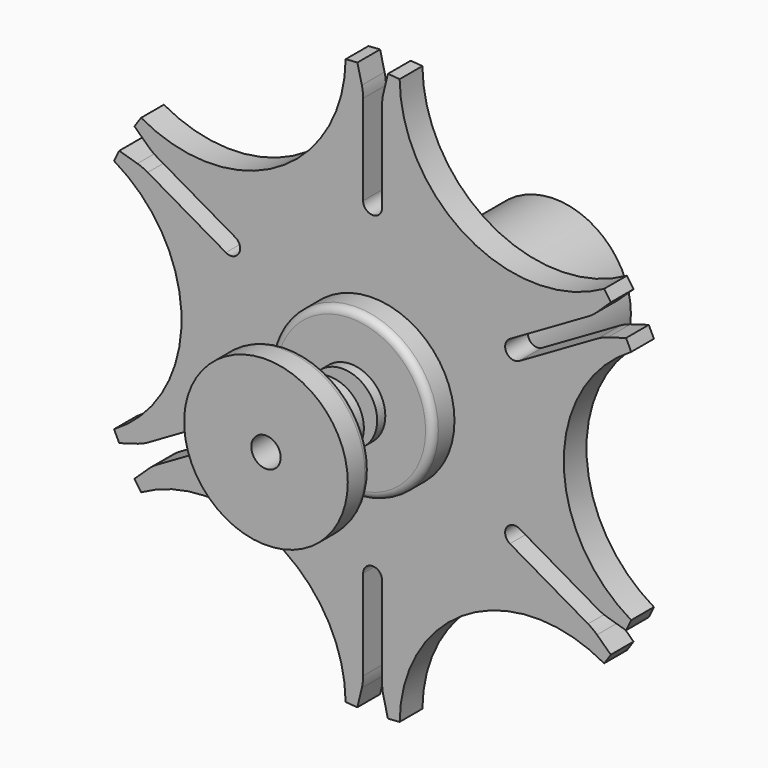
from build123d import *

# Parameters (mm, degrees)
F4_DEPTH = 3
F7_D     = 3.1
F7_2_D   = 3.1
F8_START = -3
F0_R     = 8.0625115623
F8_DEPTH = 21
F9_D     = 3


with BuildPart() as f3:
    # F2 (on Top) → F3 (revolve)
    with BuildSketch(Plane.XY):
        with BuildLine():
            Line((3.63828, -3.95), (3.63828, -2.875))
            Line((3.63828, -2.875), (7.88828, -2.875))
            ThreePointArc((7.88828, -2.875), (8.4186100859, -2.6553300859), (8.63828, -2.125))
            Line((8.63828, -2.125), (8.63828, 0.125))
            Line((8.63828, 0.125), (0, 0.125))
            Line((0, 0.125), (0, -3.95))
            Line((0, -3.95), (3.63828, -3.95))
        make_face()
    revolve(axis=Axis((0, -9.8875, 0), (0, 1, 0)))

    # F1 (on Front) → F4 (join)
    with BuildSketch(Plane.XZ):
        with BuildLine():
            ThreePointArc((27.2891470518, -12.4620404904), (20.1715, 0), (27.2891470518, 12.4620404904))
            ThreePointArc((27.2891470518, 12.4620404904), (27.0246253415, 13.025729352), (26.7484615166, 13.5838067747))
            Line((26.7484615166, 13.5838067747), (24.8260405421, 13.0172374421))
            ThreePointArc((24.8260405421, 13.0172374421), (24.268959251, 12.8165018518), (23.7395157511, 12.551315271))
            Line((23.7395157511, 12.551315271), (15.4864212633, 7.7863889468))
            ThreePointArc((15.4864212633, 7.7863889468), (14.1203958595, 8.1524143506), (14.4864212633, 9.5184397543))
            Line((14.4864212633, 9.5184397543), (22.7395157511, 14.2833660785))
            ThreePointArc((22.7395157511, 14.2833660785), (23.2338958168, 14.6092843089), (23.686278583, 14.9913630638))
            Line((23.686278583, 14.9913630638), (25.1381525053, 16.3729437982))
            ThreePointArc((25.1381525053, 16.3729437982), (24.7929251924, 16.8911473975), (24.4370171736, 17.4020743493))
            ThreePointArc((24.4370171736, 17.4020743493), (10.08575, 17.4690314324), (2.8521298782, 29.8641148397))
            ThreePointArc((2.8521298782, 29.8641148397), (2.2317001491, 29.9168767495), (1.6103090113, 29.9567505729))
            Line((1.6103090113, 29.9567505729), (1.1397619591, 28.0086005059))
            ThreePointArc((1.1397619591, 28.0086005059), (1.0350634342, 27.4257861606), (1, 26.8346813495))
            Line((1, 26.8346813495), (1, 17.3048287011))
            ThreePointArc((1, 17.3048287011), (0, 16.3048287011), (-1, 17.3048287011))
            Line((-1, 17.3048287011), (-1, 26.8346813495))
            ThreePointArc((-1, 26.8346813495), (-1.0350634342, 27.4257861606), (-1.1397619591, 28.0086005059))
            Line((-1.1397619591, 28.0086005059), (-1.6103090113, 29.9567505729))
            ThreePointArc((-1.6103090113, 29.9567505729), (-2.2317001491, 29.9168767495), (-2.8521298782, 29.8641148397))
            ThreePointArc((-2.8521298782, 29.8641148397), (-10.08575, 17.4690314324), (-24.4370171736, 17.4020743493))
            ThreePointArc((-24.4370171736, 17.4020743493), (-24.7929251924, 16.8911473975), (-25.1381525053, 16.3729437982))
            Line((-25.1381525053, 16.3729437982), (-23.686278583, 14.9913630638))
            ThreePointArc((-23.686278583, 14.9913630638), (-23.2338958168, 14.6092843089), (-22.7395157511, 14.2833660785))
            Line((-22.7395157511, 14.2833660785), (-14.4864212633, 9.5184397543))
            ThreePointArc((-14.4864212633, 9.5184397543), (-14.1203958595, 8.1524143506), (-15.4864212633, 7.7863889468))
            Line((-15.4864212633, 7.7863889468), (-23.7395157511, 12.551315271))
            ThreePointArc((-23.7395157511, 12.551315271), (-24.268959251, 12.8165018518), (-24.8260405421, 13.0172374421))
            Line((-24.8260405421, 13.0172374421), (-26.7484615166, 13.5838067747))
            ThreePointArc((-26.7484615166, 13.5838067747), (-27.0246253415, 13.025729352), (-27.2891470518, 12.4620404904))
            ThreePointArc((-27.2891470518, 12.4620404904), (-20.1715, 0), (-27.2891470518, -12.4620404904))
            ThreePointArc((-27.2891470518, -12.4620404904), (-27.0246253415, -13.025729352), (-26.7484615166, -13.5838067747))
            Line((-26.7484615166, -13.5838067747), (-24.8260405421, -13.0172374421))
            ThreePointArc((-24.8260405421, -13.0172374421), (-24.268959251, -12.8165018518), (-23.7395157511, -12.551315271))
            Line((-23.7395157511, -12.551315271), (-15.4864212633, -7.7863889468))
            ThreePointArc((-15.4864212633, -7.7863889468), (-14.1203958595, -8.1524143506), (-14.4864212633, -9.5184397543))
            Line((-14.4864212633, -9.5184397543), (-22.7395157511, -14.2833660785))
            ThreePointArc((-22.7395157511, -14.2833660785), (-23.2338958168, -14.6092843089), (-23.686278583, -14.9913630638))
            Line((-23.686278583, -14.9913630638), (-25.1381525053, -16.3729437982))
            ThreePointArc((-25.1381525053, -16.3729437982), (-24.7929251924, -16.8911473975), (-24.4370171736, -17.4020743493))
            ThreePointArc((-24.4370171736, -17.4020743493), (-10.08575, -17.4690314324), (-2.8521298782, -29.8641148397))
            ThreePointArc((-2.8521298782, -29.8641148397), (-2.2317001491, -29.9168767495), (-1.6103090113, -29.9567505729))
            Line((-1.6103090113, -29.9567505729), (-1.1397619591, -28.0086005059))
            ThreePointArc((-1.1397619591, -28.0086005059), (-1.0350634342, -27.4257861606), (-1, -26.8346813495))
            Line((-1, -26.8346813495), (-1, -17.3048287011))
            ThreePointArc((-1, -17.3048287011), (0, -16.3048287011), (1, -17.3048287011))
            Line((1, -17.3048287011), (1, -26.8346813495))
            ThreePointArc((1, -26.8346813495), (1.0350634342, -27.4257861606), (1.1397619591, -28.0086005059))
            Line((1.1397619591, -28.0086005059), (1.6103090113, -29.9567505729))
            ThreePointArc((1.6103090113, -29.9567505729), (2.2317001491, -29.9168767495), (2.8521298782, -29.8641148397))
            ThreePointArc((2.8521298782, -29.8641148397), (10.08575, -17.4690314324), (24.4370171736, -17.4020743493))
            ThreePointArc((24.4370171736, -17.4020743493), (24.7929251924, -16.8911473975), (25.1381525053, -16.3729437982))
            Line((25.1381525053, -16.3729437982), (23.686278583, -14.9913630638))
            ThreePointArc((23.686278583, -14.9913630638), (23.2338958168, -14.6092843089), (22.7395157511, -14.2833660785))
            Line((22.7395157511, -14.2833660785), (14.4864212633, -9.5184397543))
            ThreePointArc((14.4864212633, -9.5184397543), (14.1203958595, -8.1524143506), (15.4864212633, -7.7863889468))
            Line((15.4864212633, -7.7863889468), (23.7395157511, -12.551315271))
            ThreePointArc((23.7395157511, -12.551315271), (24.268959251, -12.8165018518), (24.8260405421, -13.0172374421))
            Line((24.8260405421, -13.0172374421), (26.7484615166, -13.5838067747))
            ThreePointArc((26.7484615166, -13.5838067747), (27.0246253415, -13.025729352), (27.2891470518, -12.4620404904))
        make_face()
    extrude(amount=-F4_DEPTH)

    # F7 (through all)
    with Locations(Plane.XZ.offset(14.075)):
        with Locations((0, 0)):
            Hole(F7_D / 2)


with BuildPart() as f3b:
    # F2 (on Top) → F3, piece 2 (revolve)
    with BuildSketch(Plane.XY):
        with BuildLine():
            Line((7.88828, -11.075), (3.63828, -11.075))
            Line((3.63828, -11.075), (3.63828, -5.7))
            Line((3.63828, -5.7), (0, -5.7))
            Line((0, -5.7), (0, -14.075))
            Line((0, -14.075), (8.63828, -14.075))
            Line((8.63828, -14.075), (8.63828, -11.825))
            ThreePointArc((8.63828, -11.825), (8.4186100859, -11.2946699141), (7.88828, -11.075))
        make_face()
    revolve(axis=Axis((0, -9.8875, 0), (0, 1, 0)))

    # F7#2 (through all)
    with Locations(Plane.XZ.offset(14.075)):
        with Locations((0, 0)):
            Hole(F7_2_D / 2)


with BuildPart() as f8:
    # F0 (on Front) → F8 (new body)
    with BuildSketch(Plane.XZ.offset(F8_START)):
        Circle(F0_R)
        with BuildLine():
            ThreePointArc((3.3987444888, 1.2983132359), (3.5778950136, 0.6601125888), (3.63828, 0))
            ThreePointArc((3.63828, 0), (3.5778950136, -0.6601125888), (3.3987444888, -1.2983132359))
            Line((3.3987444888, -1.2983132359), (3.8317571906, -1.5483132359))
            Line((3.8317571906, -1.5483132359), (4.1377083002, -2.388907001))
            Line((4.1377083002, -2.388907001), (3.2567571906, -2.5442424503))
            Line((3.2567571906, -2.5442424503), (2.8237444888, -2.2942424503))
            ThreePointArc((2.8237444888, -2.2942424503), (1.81914, -3.1508429061), (0.575, -3.5925556862))
            Line((0.575, -3.5925556862), (0.575, -4.0925556862))
            Line((0.575, -4.0925556862), (0, -4.7778140019))
            Line((0, -4.7778140019), (-0.575, -4.0925556862))
            Line((-0.575, -4.0925556862), (-0.575, -3.5925556862))
            ThreePointArc((-0.575, -3.5925556862), (-1.81914, -3.1508429061), (-2.8237444888, -2.2942424503))
            Line((-2.8237444888, -2.2942424503), (-3.2567571906, -2.5442424503))
            Line((-3.2567571906, -2.5442424503), (-4.1377083002, -2.388907001))
            Line((-4.1377083002, -2.388907001), (-3.8317571906, -1.5483132359))
            Line((-3.8317571906, -1.5483132359), (-3.3987444888, -1.2983132359))
            ThreePointArc((-3.3987444888, -1.2983132359), (-3.63828, 0), (-3.3987444888, 1.2983132359))
            Line((-3.3987444888, 1.2983132359), (-3.8317571906, 1.5483132359))
            Line((-3.8317571906, 1.5483132359), (-4.1377083002, 2.388907001))
            Line((-4.1377083002, 2.388907001), (-3.2567571906, 2.5442424503))
            Line((-3.2567571906, 2.5442424503), (-2.8237444888, 2.2942424503))
            ThreePointArc((-2.8237444888, 2.2942424503), (-1.81914, 3.1508429061), (-0.575, 3.5925556862))
            Line((-0.575, 3.5925556862), (-0.575, 4.0925556862))
            Line((-0.575, 4.0925556862), (0, 4.7778140019))
            Line((0, 4.7778140019), (0.575, 4.0925556862))
            Line((0.575, 4.0925556862), (0.575, 3.5925556862))
            ThreePointArc((0.575, 3.5925556862), (1.81914, 3.1508429061), (2.8237444888, 2.2942424503))
            Line((2.8237444888, 2.2942424503), (3.2567571906, 2.5442424503))
            Line((3.2567571906, 2.5442424503), (4.1377083002, 2.388907001))
            Line((4.1377083002, 2.388907001), (3.8317571906, 1.5483132359))
            Line((3.8317571906, 1.5483132359), (3.3987444888, 1.2983132359))
        make_face(mode=Mode.SUBTRACT)
        with BuildLine():
            Line((-3.2567571906, -2.5442424503), (-2.8237444888, -2.2942424503))
            ThreePointArc((-2.8237444888, -2.2942424503), (-3.1508429061, -1.81914), (-3.3987444888, -1.2983132359))
            Line((-3.3987444888, -1.2983132359), (-3.8317571906, -1.5483132359))
            Line((-3.8317571906, -1.5483132359), (-3.2567571906, -2.5442424503))
        make_face()
        Polygon((-4.1377083002, -2.388907001), (-3.2567571906, -2.5442424503), (-3.8317571906, -1.5483132359), align=None)
        with BuildLine():
            ThreePointArc((3.3987444888, -1.2983132359), (3.5778950136, -0.6601125888), (3.63828, 0))
            ThreePointArc((3.63828, 0), (3.5778950136, 0.6601125888), (3.3987444888, 1.2983132359))
            ThreePointArc((3.3987444888, 1.2983132359), (3.1508429061, 1.81914), (2.8237444888, 2.2942424503))
            ThreePointArc((2.8237444888, 2.2942424503), (1.81914, 3.1508429061), (0.575, 3.5925556862))
            ThreePointArc((0.575, 3.5925556862), (0, 3.63828), (-0.575, 3.5925556862))
            ThreePointArc((-0.575, 3.5925556862), (-1.81914, 3.1508429061), (-2.8237444888, 2.2942424503))
            ThreePointArc((-2.8237444888, 2.2942424503), (-3.1508429061, 1.81914), (-3.3987444888, 1.2983132359))
            ThreePointArc((-3.3987444888, 1.2983132359), (-3.63828, 0), (-3.3987444888, -1.2983132359))
            ThreePointArc((-3.3987444888, -1.2983132359), (-3.1508429061, -1.81914), (-2.8237444888, -2.2942424503))
            ThreePointArc((-2.8237444888, -2.2942424503), (-1.81914, -3.1508429061), (-0.575, -3.5925556862))
            ThreePointArc((-0.575, -3.5925556862), (0, -3.63828), (0.575, -3.5925556862))
            ThreePointArc((0.575, -3.5925556862), (1.81914, -3.1508429061), (2.8237444888, -2.2942424503))
            ThreePointArc((2.8237444888, -2.2942424503), (3.1508429061, -1.81914), (3.3987444888, -1.2983132359))
        make_face()
        with BuildLine():
            Line((0.575, -4.0925556862), (0.575, -3.5925556862))
            ThreePointArc((0.575, -3.5925556862), (0, -3.63828), (-0.575, -3.5925556862))
            Line((-0.575, -3.5925556862), (-0.575, -4.0925556862))
            Line((-0.575, -4.0925556862), (0.575, -4.0925556862))
        make_face()
        with BuildLine():
            ThreePointArc((-3.3987444888, 1.2983132359), (-3.1508429061, 1.81914), (-2.8237444888, 2.2942424503))
            Line((-2.8237444888, 2.2942424503), (-3.2567571906, 2.5442424503))
            Line((-3.2567571906, 2.5442424503), (-3.8317571906, 1.5483132359))
            Line((-3.8317571906, 1.5483132359), (-3.3987444888, 1.2983132359))
        make_face()
        with BuildLine():
            ThreePointArc((-0.575, 3.5925556862), (0, 3.63828), (0.575, 3.5925556862))
            Line((0.575, 3.5925556862), (0.575, 4.0925556862))
            Line((0.575, 4.0925556862), (-0.575, 4.0925556862))
            Line((-0.575, 4.0925556862), (-0.575, 3.5925556862))
        make_face()
        with BuildLine():
            ThreePointArc((2.8237444888, 2.2942424503), (3.1508429061, 1.81914), (3.3987444888, 1.2983132359))
            Line((3.3987444888, 1.2983132359), (3.8317571906, 1.5483132359))
            Line((3.8317571906, 1.5483132359), (3.2567571906, 2.5442424503))
            Line((3.2567571906, 2.5442424503), (2.8237444888, 2.2942424503))
        make_face()
        Polygon((4.1377083002, -2.388907001), (3.8317571906, -1.5483132359), (3.2567571906, -2.5442424503), align=None)
        Polygon((0, -4.7778140019), (0.575, -4.0925556862), (-0.575, -4.0925556862), align=None)
        Polygon((-3.8317571906, 1.5483132359), (-3.2567571906, 2.5442424503), (-4.1377083002, 2.388907001), align=None)
        Polygon((-0.575, 4.0925556862), (0.575, 4.0925556862), (0, 4.7778140019), align=None)
        with BuildLine():
            Line((3.8317571906, -1.5483132359), (3.3987444888, -1.2983132359))
            ThreePointArc((3.3987444888, -1.2983132359), (3.1508429061, -1.81914), (2.8237444888, -2.2942424503))
            Line((2.8237444888, -2.2942424503), (3.2567571906, -2.5442424503))
            Line((3.2567571906, -2.5442424503), (3.8317571906, -1.5483132359))
        make_face()
    extrude(amount=-F8_DEPTH)

    # F9 (through all)
    with Locations(Plane.XZ):
        with Locations((0, 0)):
            Hole(F9_D / 2)


solid = Compound([f3.part, f3b.part, f8.part])
